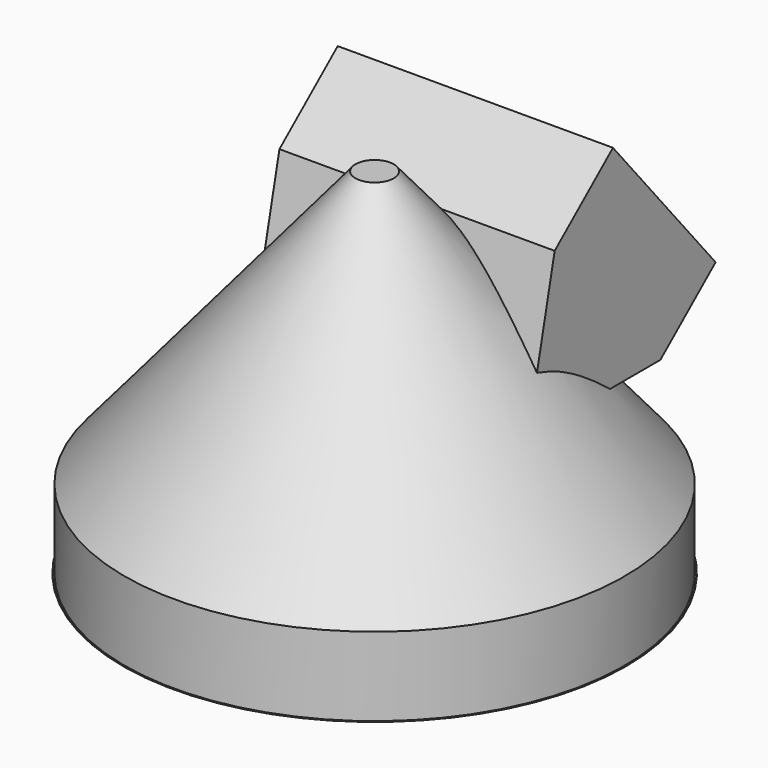
from build123d import *

# Parameters (mm, degrees)
F0_R      = 32
F1_DEPTH  = 10
F1_FACE_R = 32
F2_DEPTH  = 35
F6_DEPTH  = 17.5


with BuildPart() as f1:
    # F0 (on Top) → F1 (new body)
    with BuildSketch(Plane.XY):
        Circle(F0_R)
    extrude(amount=F1_DEPTH)

    # F1_face (on face) → F2 (join)
    with BuildSketch(Plane.XY.offset(10)):
        Circle(F1_FACE_R)
    extrude(amount=F2_DEPTH)

    # F3 (on Right) → F4 (revolve, cut)
    with BuildSketch(Plane.YZ):
        Polygon((35.553046, 47.536178), (0.303472, 47.536178), (31.800065, 10), (31.800065, 0), (39.023295, 1.339023), (40.083904, 13.93372), align=None)
    revolve(axis=Axis((0, 0, 24.252612), (0, 0, -1)), mode=Mode.SUBTRACT)

    # F5 (on Right) → F6 (join, symmetric)
    with BuildSketch(Plane.YZ):
        Polygon((32.32736, 27.364184), (16.009078, 46.811556), (6.746613, 39.039424), (2.463955, 20), (23.551067, 20), align=None)
    extrude(amount=F6_DEPTH, both=True)


solid = f1.part
